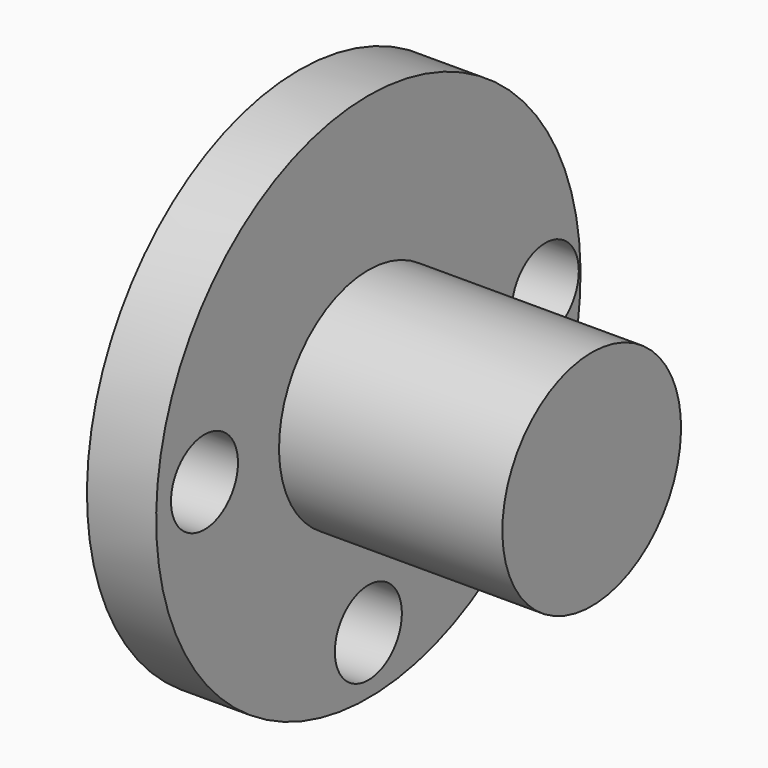
from build123d import *

# Parameters (mm, degrees)
F2_R     = 9.525
F3_DEPTH = 508.508
F4_R     = 9.525
F5_DEPTH = 25.4
F6_R     = 9.525
F7_DEPTH = 25.4


with BuildPart() as f1:
    # F0 (on Front) → F1 (revolve)
    with BuildSketch(Plane.XZ):
        Polygon((-45.004993, 53.025745), (-60.752993, 53.025745), (-60.752993, -7.299255), (5.795007, -7.299255), (5.795007, 18.100745), (-45.004993, 18.100745), align=None)
    revolve(axis=Axis((-27.478993, 0, -7.299255), (1, 0, 0)))

    # F2 (on face) → F3 (cut)
    with BuildSketch(Plane.YZ.offset(-45.004993)):
        with Locations((50.308675, -6.467566)):
            Circle(F2_R)
    extrude(amount=-F3_DEPTH, mode=Mode.SUBTRACT)

    # F4 (on face) → F5 (cut)
    with BuildSketch(Plane.YZ.offset(-45.004993)):
        with Locations((-46.595834, -5.428873)):
            Circle(F4_R)
    extrude(amount=-F5_DEPTH, mode=Mode.SUBTRACT)

    # F6 (on face) → F7 (cut)
    with BuildSketch(Plane.YZ.offset(-45.004993)):
        with Locations((0, -54.508783)):
            Circle(F6_R)
    extrude(amount=-F7_DEPTH, mode=Mode.SUBTRACT)


solid = f1.part
